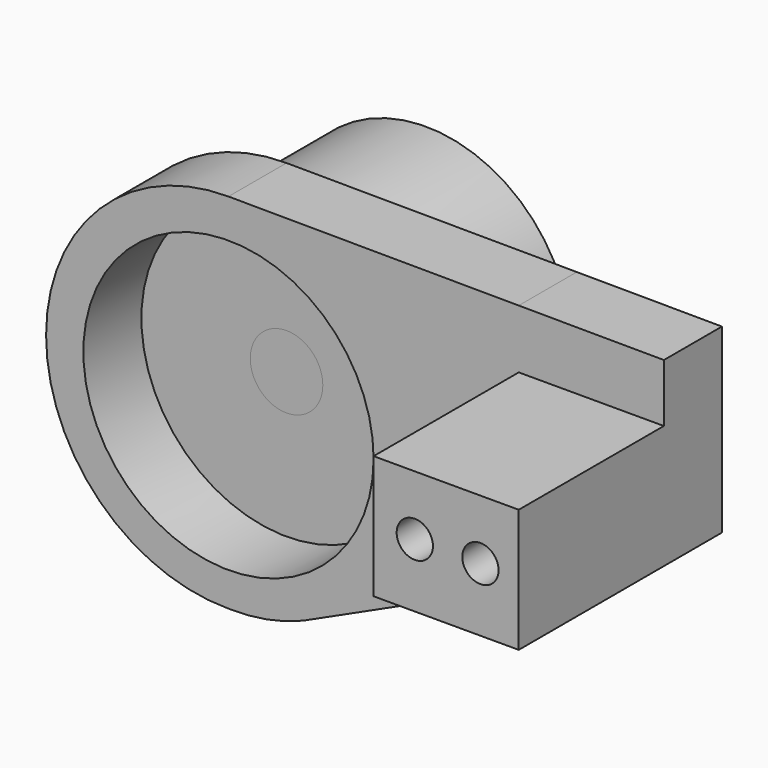
from build123d import *

# Parameters (mm, degrees)
F0_R     = 20
F0_R_2   = 5
F1_DEPTH = 24
F2_DEPTH = 10
F0_W     = 20
F0_H     = 17
F0_R_3   = 2.5
F3_DEPTH = 35
F4_DEPTH = 10
F5_DEPTH = 32


with BuildPart() as f1:
    # F0 (on Front) → F1 (new body)
    with BuildSketch(Plane.XZ):
        Circle(F0_R)
        Circle(F0_R_2, mode=Mode.SUBTRACT)
    extrude(amount=-F1_DEPTH)


with BuildPart() as f2:
    # F0 (on Front) → F2 (new body)
    with BuildSketch(Plane.XZ):
        with BuildLine():
            Line((39.999111, 25.108884), (0, 25.326648))
            ThreePointArc((0, 25.326648), (-25.136103, 0.327019), (0, -24.672611))
            ThreePointArc((0, -24.672611), (5.245914, -24.271862), (10.29189, -22.782449))
            Line((10.29189, -22.782449), (59.999111, 0))
            Line((59.999111, 0), (39.999111, 0))
            Line((39.999111, 0), (39.999111, 17))
            Line((39.999111, 17), (39.999111, 25.108884))
        make_face()
        Circle(F0_R, mode=Mode.SUBTRACT)
    extrude(amount=F2_DEPTH)

    # F0 (on Front) → F3 (join)
    with BuildSketch(Plane.XZ):
        with Locations((49.999111, 8.5)):
            Rectangle(F0_W, F0_H)
        with Locations((45.67508, 8.755062)):
            Circle(F0_R_3, mode=Mode.SUBTRACT)
        with Locations((54.72048, 8.755062)):
            Circle(F0_R_3, mode=Mode.SUBTRACT)
    extrude(amount=F3_DEPTH)

    # F0 (on Front) → F4 (join)
    with BuildSketch(Plane.XZ):
        Polygon((59.999111, 25), (39.999111, 25.108884), (39.999111, 17), (59.999111, 17), align=None)
    extrude(amount=F4_DEPTH)


with BuildPart() as f5:
    # F0 (on Front) → F5 (new body)
    with BuildSketch(Plane.XZ):
        Circle(F0_R_2)
    extrude(amount=-F5_DEPTH)


solid = Compound([f1.part, f2.part, f5.part])
